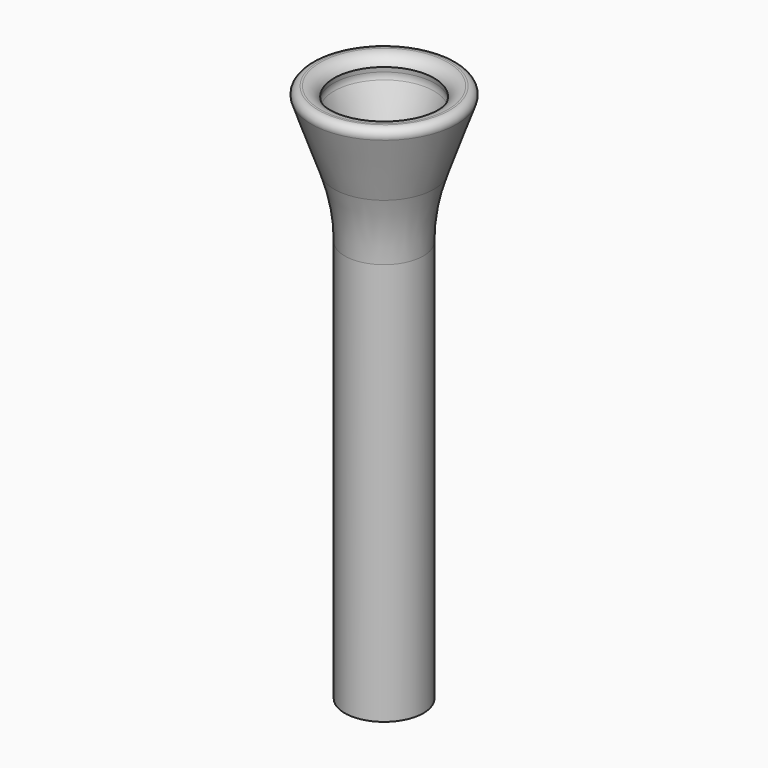
from build123d import *

# Parameters (mm, degrees)
F2_SIZE = 0.381


with BuildPart() as f1:
    # F0 (on Front) → F1 (revolve)
    with BuildSketch(Plane.XZ):
        with BuildLine():
            Line((3.175, 13.716), (3.175, 0))
            Line((3.175, 0), (4.0005, 0))
            Line((4.0005, 0), (4.0005, 40.94084))
            ThreePointArc((4.0005, 40.94084), (4.272742, 44.149939), (5.081688, 47.267316))
            Line((5.081688, 47.267316), (7.398952, 53.848941))
            ThreePointArc((7.398952, 53.848941), (7.302082, 54.542348), (6.6802, 54.864))
            Line((6.6802, 54.864), (6.489735, 54.864))
            ThreePointArc((6.489735, 54.864), (5.641147, 54.605888), (5.08, 53.918984))
            Line((5.08, 53.918984), (5.15442, 53.43156))
            ThreePointArc((5.15442, 53.43156), (5.160402, 53.092618), (5.076509, 52.764169))
            Line((5.076509, 52.764169), (3.497997, 48.856816))
            ThreePointArc((3.497997, 48.856816), (2.954321, 48.039132), (2.024738, 47.722796))
            Line((2.024738, 47.722796), (0, 47.722796))
            Line((0, 47.722796), (0, 46.680742))
            Line((0, 46.680742), (0, 33.147))
            Line((0, 33.147), (1.9812, 33.147))
            Line((1.9812, 33.147), (1.9812, 13.716))
            Line((1.9812, 13.716), (3.175, 13.716))
        make_face()
    revolve(axis=Axis((0, 0, 53.415886), (0, 0, 1)))

    # F2
    f2_edges = [f1.edges().sort_by_distance(p)[0] for p in [
        (-1.9812, 0, 13.716),
    ]]
    chamfer(f2_edges, length=F2_SIZE)


solid = f1.part
